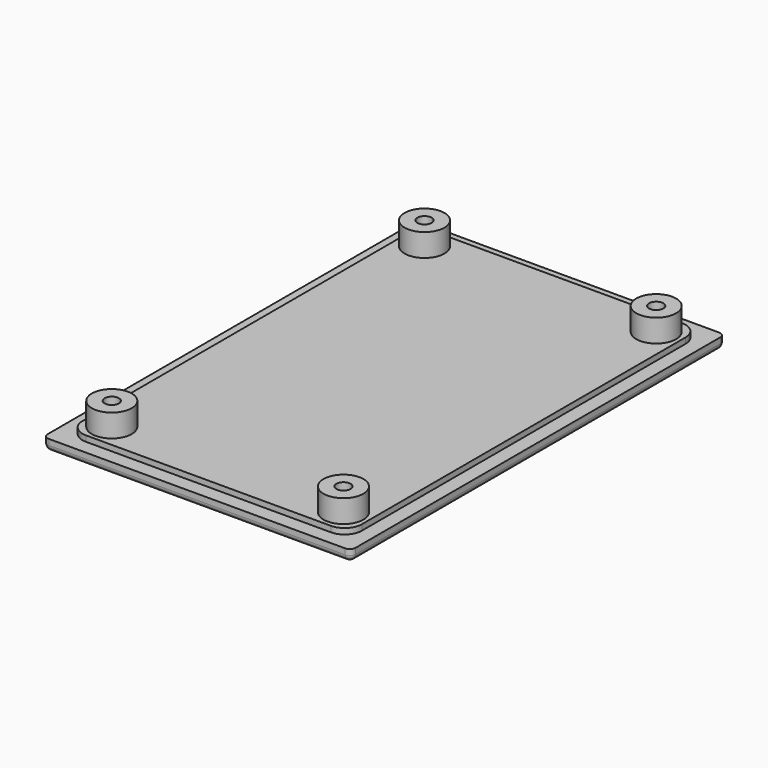
from build123d import *

# Parameters (mm, degrees)
SKETCH_W     = 54
SKETCH_H     = 82
PAD_DEPTH    = 2
SKETCH001_W  = 49
SKETCH001_H  = 77
PAD001_DEPTH = 1
SKETCH002_R  = 3.5
PAD002_DEPTH = 4
SKETCH003_R  = 1.25
POCKET_DEPTH = 7
FILLET_R     = 1
FILLET001_R  = 3


with BuildPart() as part:
    # Sketch → Pad (new body)
    with BuildSketch(Plane.XY):
        Rectangle(SKETCH_W, SKETCH_H)
    extrude(amount=PAD_DEPTH)

    # Sketch001 (on Face6 of Pad) → Pad001 (join)
    with BuildSketch(Plane.XY.offset(2)):
        Rectangle(SKETCH001_W, SKETCH001_H)
    extrude(amount=PAD001_DEPTH)

    # Sketch002 (on Face11 of Pad001) → Pad002 (join)
    with BuildSketch(Plane.XY.offset(3)):
        with Locations((-20.32, 34.29)):
            Circle(SKETCH002_R)
        with Locations((20.32, 34.29)):
            Circle(SKETCH002_R)
        with Locations((-20.32, -34.29)):
            Circle(SKETCH002_R)
        with Locations((20.32, -34.29)):
            Circle(SKETCH002_R)
    extrude(amount=PAD002_DEPTH)

    # Sketch003 (on Face18 of Pad002) → Pocket (cut)
    with BuildSketch(Plane.XY.offset(7)):
        with Locations((-20.32, 34.29)):
            Circle(SKETCH003_R)
        with Locations((20.32, 34.29)):
            Circle(SKETCH003_R)
        with Locations((20.32, -34.29)):
            Circle(SKETCH003_R)
        with Locations((-20.32, -34.29)):
            Circle(SKETCH003_R)
    extrude(amount=-POCKET_DEPTH, mode=Mode.SUBTRACT)

    # Fillet
    fillet_edges = [part.edges().sort_by_distance(p)[0] for p in [
        (-27, 0, 0),
        (0, -41, 0),
        (-27, -41, 1),
        (-27, 41, 1),
        (0, 41, 0),
        (27, 41, 1),
        (27, 0, 0),
        (27, -41, 1),
    ]]
    fillet(fillet_edges, radius=FILLET_R)

    # Fillet001
    fillet001_edges = [part.edges().sort_by_distance(p)[0] for p in [
        (24.5, -38.5, 2.5),
        (24.5, 38.5, 2.5),
        (-24.5, 38.5, 2.5),
        (-24.5, -38.5, 2.5),
    ]]
    fillet(fillet001_edges, radius=FILLET001_R)


solid = part.part
